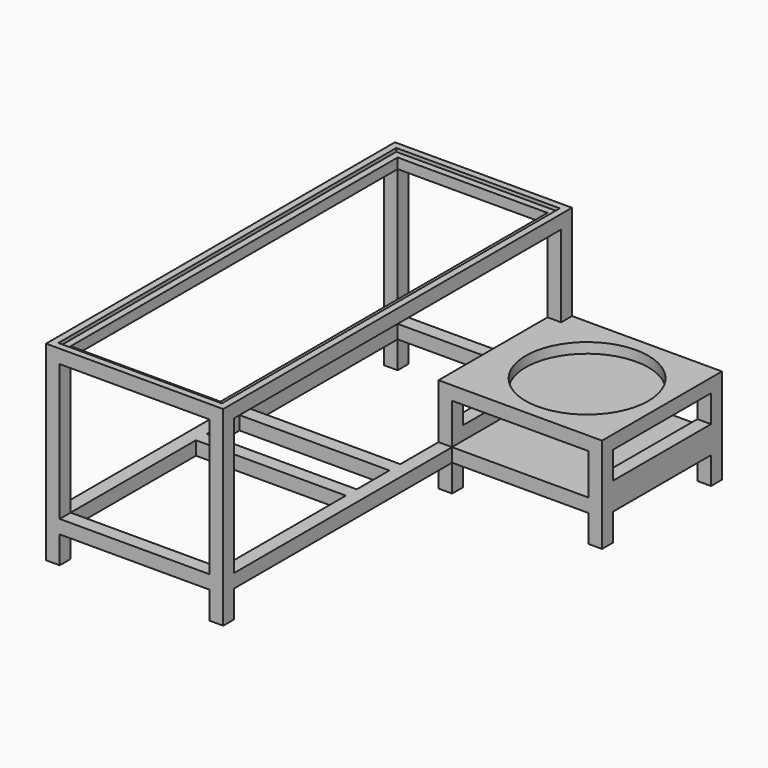
from build123d import *

# Parameters (mm, degrees)
F0_W       = 1320.8
F0_H       = 1625.6
F0_W_2     = 1219.2
F0_H_2     = 1524
F1_DEPTH   = 50.8
F2_W       = 50.8
F2_H       = 50.8
F3_DEPTH   = 508
F4_W       = 1320.8
F4_H       = 1625.6
F4_W_2     = 1219.2
F4_H_2     = 1524
F5_DEPTH   = 50.8
F6_W       = 609.6
F6_H       = 50.8
F7_DEPTH   = 1524
F9_DEPTH   = 609.601
F10_W      = 50.8
F10_H      = 50.8
F11_DEPTH  = 508
F12_W      = 50.8
F12_H      = 50.8
F13_DEPTH  = 1524
F14_W      = 558.8
F14_H      = 254
F15_DEPTH  = 558.8
F15_FACE_W = 508
F15_FACE_H = 203.2
F16_DEPTH  = 50.8
F17_W      = 508.634997
F17_H      = 152.4
F18_DEPTH  = 558.801
F19_W      = 457.139586
F19_H      = 101.6
F20_DEPTH  = 609.601
F21_W      = 609.6
F21_H      = 1574.8
F22_DEPTH  = 12.7
F23_W      = 558.8
F23_H      = 1524
F24_DEPTH  = 596.901
F25_W      = 50.8
F25_H      = 50.8
F26_DEPTH  = 101.6
F27_W      = 50.8
F27_H      = 50.8
F28_DEPTH  = 558.8
F29_R      = 228.6
F30_DEPTH  = 38.1


with BuildPart() as f1:
    # F0 (on Top) → F1 (new body)
    with BuildSketch(Plane.XY):
        Rectangle(F0_W, F0_H)
        Rectangle(F0_W_2, F0_H_2, mode=Mode.SUBTRACT)
    extrude(amount=F1_DEPTH)

    # F2 (on face) → F3 (join)
    with BuildSketch(Plane.XY.offset(50.8)):
        with Locations((-635, 787.4)):
            Rectangle(F2_W, F2_H)
        with Locations((635, 787.4)):
            Rectangle(F2_W, F2_H)
        with Locations((635, -787.4)):
            Rectangle(F2_W, F2_H)
        with Locations((-635, -787.4)):
            Rectangle(F2_W, F2_H)
    extrude(amount=F3_DEPTH)

    # F4 (on face) → F5 (join)
    with BuildSketch(Plane.XY.offset(558.8)):
        Rectangle(F4_W, F4_H)
        Rectangle(F4_W_2, F4_H_2, mode=Mode.SUBTRACT)
    extrude(amount=F5_DEPTH)

    # F6 (on face) → F7 (join, through all)
    with BuildSketch(Plane.XZ.offset(-762)):
        with Locations((-304.8, 584.2)):
            Rectangle(F6_W, F6_H)
    extrude(amount=F7_DEPTH)

    # F8 (on face) → F9 (cut, through all)
    with BuildSketch(Plane.XY.offset(609.6)):
        Polygon((0, 812.8), (0, 762), (0, -812.8), (660.4, -812.8), (660.4, 812.8), align=None)
    extrude(amount=-F9_DEPTH, mode=Mode.SUBTRACT)

    # F10 (on face) → F11 (join, through all)
    with BuildSketch(Plane.XY.offset(50.8)):
        with Locations((-25.4, 787.4)):
            Rectangle(F10_W, F10_H)
        with Locations((-25.4, -787.4)):
            Rectangle(F10_W, F10_H)
    extrude(amount=F11_DEPTH)

    # F12 (on face) → F13 (join, through all)
    with BuildSketch(Plane.XZ.offset(-762)):
        with Locations((-25.4, 25.4)):
            Rectangle(F12_W, F12_H)
    extrude(amount=F13_DEPTH)

    # F14 (on face) → F15 (join)
    with BuildSketch(Plane.YZ):
        with Locations((533.4, 127)):
            Rectangle(F14_W, F14_H)
    extrude(amount=F15_DEPTH)

    # F15_face (on face) → F16 (join)
    with BuildSketch(Plane(origin=(0, 508, 152.4), x_dir=(0, 1, 0), z_dir=(-1, 0, 0))):
        Rectangle(F15_FACE_W, F15_FACE_H)
    extrude(amount=F16_DEPTH)

    # F17 (on face) → F18 (cut, through all)
    with BuildSketch(Plane.XZ.offset(-254)):
        with Locations((253.682502, 127)):
            Rectangle(F17_W, F17_H)
    extrude(amount=-F18_DEPTH, mode=Mode.SUBTRACT)

    # F19 (on face) → F20 (cut, through all)
    with BuildSketch(Plane(origin=(-50.8, 0, 0), x_dir=(0, -1, 0), z_dir=(-1, 0, 0))):
        with Locations((-533.369793, 152.4)):
            Rectangle(F19_W, F19_H)
    extrude(amount=-F20_DEPTH, mode=Mode.SUBTRACT)

    # F21 (on face) → F22 (cut)
    with BuildSketch(Plane.XY.offset(609.6)):
        with Locations((-330.2, 0)):
            Rectangle(F21_W, F21_H)
    extrude(amount=-F22_DEPTH, mode=Mode.SUBTRACT)

    # F23 (on face) → F24 (cut, through all)
    with BuildSketch(Plane.XY.offset(596.9)):
        with Locations((-330.2, 0)):
            Rectangle(F23_W, F23_H)
    extrude(amount=-F24_DEPTH, mode=Mode.SUBTRACT)

    # F25 (on face) → F26 (join)
    with BuildSketch(Plane(origin=(0, 0, 0), x_dir=(1, 0, 0), z_dir=(0, 0, -1))):
        with Locations((-635, 787.4)):
            Rectangle(F25_W, F25_H)
        with Locations((-25.4, 787.4)):
            Rectangle(F25_W, F25_H)
        with Locations((-635, -787.4)):
            Rectangle(F25_W, F25_H)
        with Locations((-25.4, -787.4)):
            Rectangle(F25_W, F25_H)
        with Locations((-25.4, -279.4)):
            Rectangle(F25_W, F25_H)
        with Locations((533.4, -279.4)):
            Rectangle(F25_W, F25_H)
        with Locations((533.4, -787.4)):
            Rectangle(F25_W, F25_H)
    extrude(amount=F26_DEPTH)

    # F27 (on face) → F28 (join, through all)
    with BuildSketch(Plane.YZ.offset(-609.6)):
        with Locations((-152.4, 25.4)):
            Rectangle(F27_W, F27_H)
        with Locations((50.8, 25.4)):
            Rectangle(F27_W, F27_H)
    extrude(amount=F28_DEPTH)

    # F29 (on face) → F30 (cut)
    with BuildSketch(Plane.XY.offset(254)):
        with Locations((279.4, 533.4)):
            Circle(F29_R)
    extrude(amount=-F30_DEPTH, mode=Mode.SUBTRACT)


solid = f1.part
